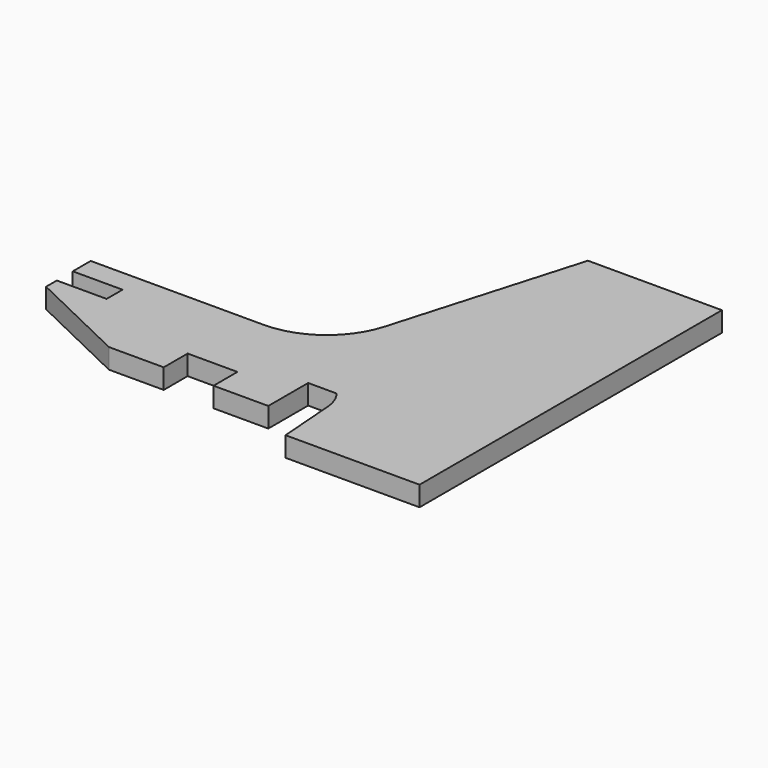
from build123d import *

# Parameters (mm, degrees)
PAD_DEPTH    = 2
SKETCH_W     = 10
SKETCH_H     = 6
POCKET_DEPTH = 4.001


with BuildPart() as part:
    # CopySketch004 → Pad (new body, symmetric)
    with BuildSketch(Plane.XY):
        with BuildLine():
            Line((-36.508492, 11.060009), (-1.723702, 11.060009))
            ThreePointArc((-1.723702, 11.060009), (7.733856, 14.212769), (13.407871, 22.409771))
            Line((13.407871, 22.409771), (24.319128, 59.832547))
            Line((24.319128, 59.832547), (51.226102, 59.832547))
            Line((51.226102, 59.832547), (51.226102, -16.067453))
            Line((24.319128, -16.067453), (51.226102, -16.067453))
            Line((23.401691, -4.060687), (24.319128, -16.067453))
            ThreePointArc((23.401691, -4.060687), (22.843077, -1.909417), (21.705474, 0))
            Line((16, 0), (21.705474, 0))
            Line((16, -10), (16, 0))
            Line((-16, -10), (16, -10))
            Line((-16, -10), (-36.508492, -0.144815))
            Line((-36.508492, 2.549264), (-36.508492, -0.144815))
            Line((-26.508492, 2.549264), (-36.508492, 2.549264))
            Line((-26.508492, 6.549264), (-26.508492, 2.549264))
            Line((-36.508492, 6.549264), (-26.508492, 6.549264))
            Line((-36.508492, 11.060009), (-36.508492, 6.549264))
        make_face()
    extrude(amount=PAD_DEPTH, both=True)

    # Sketch (on Face19 of Pad) → Pocket (cut, through all)
    with BuildSketch(Plane.XY.offset(2)):
        with Locations((0, -7)):
            Rectangle(SKETCH_W, SKETCH_H)
    extrude(amount=-POCKET_DEPTH, mode=Mode.SUBTRACT)


solid = part.part
